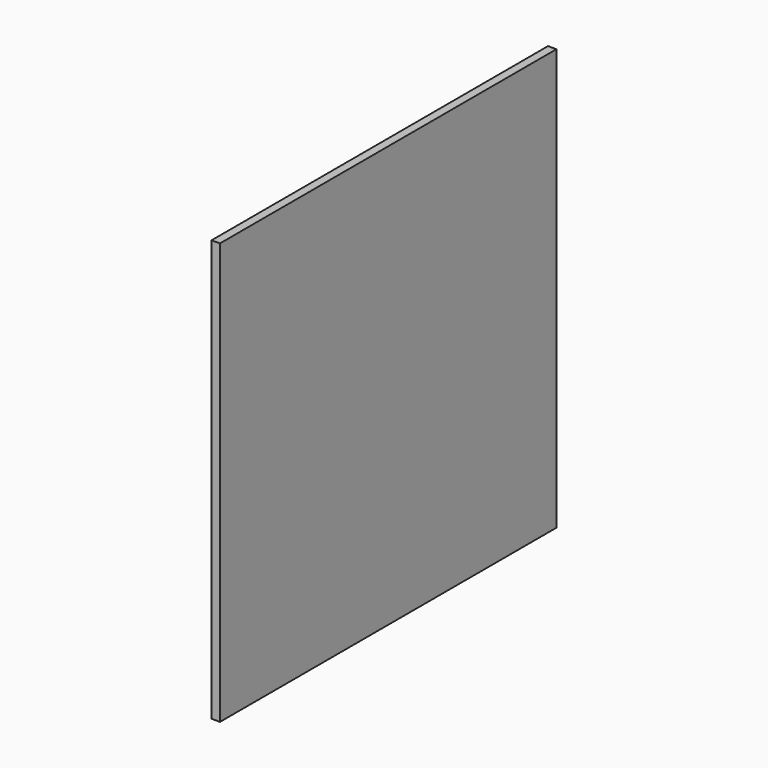
from build123d import *

# Parameters (mm, degrees)
F2_DEPTH = 100


with BuildPart() as f2:
    # F1 (on face) → F2 (new body)
    with BuildSketch(Plane.XY):
        Polygon((0, 49.91341), (0, 0), (2, 0), (2, 49.825504), (2, 49.91341), align=None)
        Polygon((2, 0), (0, 0), (0, -49.91341), (2, -49.91341), (2, -49.825504), align=None)
    extrude(amount=F2_DEPTH)


solid = f2.part
